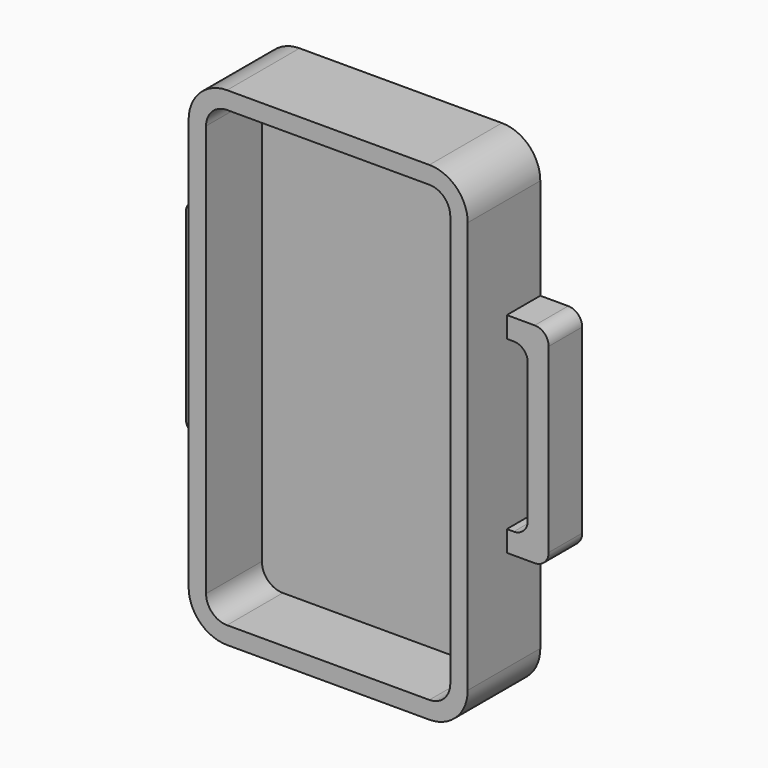
from build123d import *

# Parameters (mm, degrees)
F1_DEPTH = 3
F2_DEPTH = 13
F3_DEPTH = 6


with BuildPart() as f1:
    # F0 (on Front) → F1 (new body)
    with BuildSketch(Plane.XZ):
        with BuildLine():
            Line((-14.5, -32.5), (14.5, -32.5))
            ThreePointArc((14.5, -32.5), (16.62132, -31.62132), (17.5, -29.5))
            Line((17.5, -29.5), (17.5, 29.5))
            ThreePointArc((17.5, 29.5), (16.62132, 31.62132), (14.5, 32.5))
            Line((14.5, 32.5), (-14.5, 32.5))
            ThreePointArc((-14.5, 32.5), (-16.62132, 31.62132), (-17.5, 29.5))
            Line((-17.5, 29.5), (-17.5, -29.5))
            ThreePointArc((-17.5, -29.5), (-16.62132, -31.62132), (-14.5, -32.5))
        make_face()
    extrude(amount=F1_DEPTH)

    # F0 (on Front) → F2 (join)
    with BuildSketch(Plane.XZ):
        with BuildLine():
            Line((14.5, 35), (-14.5, 35))
            ThreePointArc((-14.5, 35), (-18.389087, 33.389087), (-20, 29.5))
            Line((-20, 29.5), (-20, 15))
            Line((-20, 15), (-20, 12))
            Line((-20, 12), (-20, -12))
            Line((-20, -12), (-20, -15))
            Line((-20, -15), (-20, -29.5))
            ThreePointArc((-20, -29.5), (-18.389087, -33.389087), (-14.5, -35))
            Line((-14.5, -35), (14.5, -35))
            ThreePointArc((14.5, -35), (18.389087, -33.389087), (20, -29.5))
            Line((20, -29.5), (20, -15))
            Line((20, -15), (20, -12))
            Line((20, -12), (20, 12))
            Line((20, 12), (20, 15))
            Line((20, 15), (20, 29.5))
            ThreePointArc((20, 29.5), (18.389087, 33.389087), (14.5, 35))
        make_face()
        with BuildLine():
            ThreePointArc((17.5, -29.5), (16.62132, -31.62132), (14.5, -32.5))
            Line((14.5, -32.5), (-14.5, -32.5))
            ThreePointArc((-14.5, -32.5), (-16.62132, -31.62132), (-17.5, -29.5))
            Line((-17.5, -29.5), (-17.5, 29.5))
            ThreePointArc((-17.5, 29.5), (-16.62132, 31.62132), (-14.5, 32.5))
            Line((-14.5, 32.5), (14.5, 32.5))
            ThreePointArc((14.5, 32.5), (16.62132, 31.62132), (17.5, 29.5))
            Line((17.5, 29.5), (17.5, -29.5))
        make_face(mode=Mode.SUBTRACT)
    extrude(amount=F2_DEPTH)

    # F0 (on Front) → F3 (join)
    with BuildSketch(Plane.XZ):
        with BuildLine():
            Line((-20, 12), (-20, 15))
            Line((-20, 15), (-24, 15))
            ThreePointArc((-24, 15), (-25.414214, 14.414214), (-26, 13))
            Line((-26, 13), (-26, -13))
            ThreePointArc((-26, -13), (-25.414214, -14.414214), (-24, -15))
            Line((-24, -15), (-20, -15))
            Line((-20, -15), (-20, -12))
            Line((-20, -12), (-21, -12))
            ThreePointArc((-21, -12), (-22.414214, -11.414214), (-23, -10))
            Line((-23, -10), (-23, 10))
            ThreePointArc((-23, 10), (-22.414214, 11.414214), (-21, 12))
            Line((-21, 12), (-20, 12))
        make_face()
        with BuildLine():
            Line((24, 15), (20, 15))
            Line((20, 15), (20, 12))
            Line((20, 12), (21, 12))
            ThreePointArc((21, 12), (22.414214, 11.414214), (23, 10))
            Line((23, 10), (23, -10))
            ThreePointArc((23, -10), (22.414214, -11.414214), (21, -12))
            Line((21, -12), (20, -12))
            Line((20, -12), (20, -15))
            Line((20, -15), (24, -15))
            ThreePointArc((24, -15), (25.414214, -14.414214), (26, -13))
            Line((26, -13), (26, 13))
            ThreePointArc((26, 13), (25.414214, 14.414214), (24, 15))
        make_face()
    extrude(amount=F3_DEPTH)


solid = f1.part
